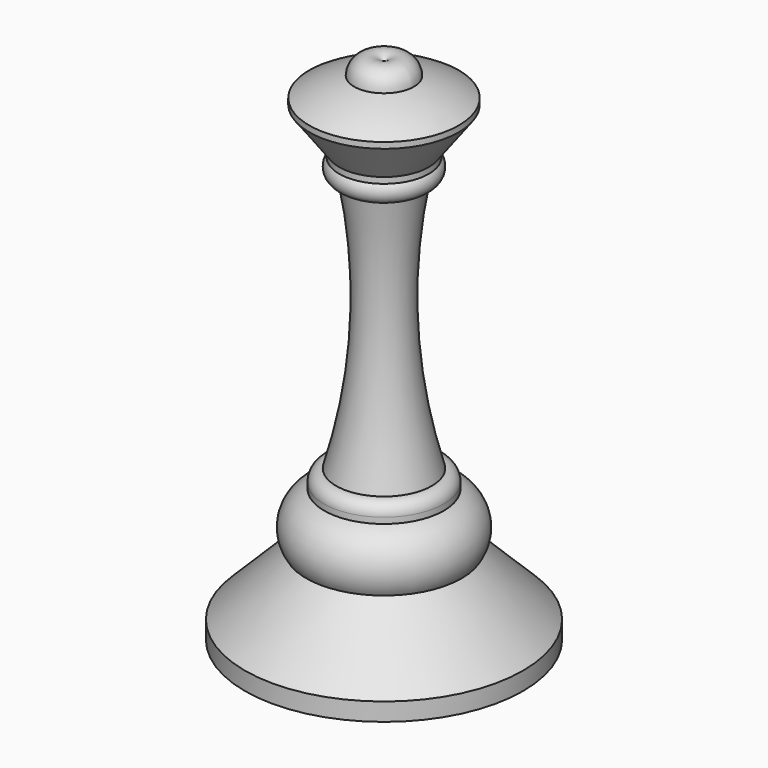
from build123d import *


with BuildPart() as f1:
    # F0 (on Front) → F1 (revolve)
    with BuildSketch(Plane.XZ):
        with BuildLine():
            Line((0, 0), (0, -85))
            Line((0, -85), (23.251464, -85))
            Line((23.251464, -85), (23.251464, -82))
            Line((23.251464, -82), (13, -71.748536))
            ThreePointArc((13, -71.748536), (13.690416, -66.5295), (10, -62.775057))
            Line((10, -62.775057), (10, -61.775057))
            ThreePointArc((10, -61.775057), (9.414214, -60.360844), (8, -59.775057))
            ThreePointArc((8, -59.775057), (4.460945, -38.679739), (6, -17.345057))
            ThreePointArc((6, -17.345057), (7.822876, -16.167933), (7.5, -14.022182))
            Line((7.5, -14.022182), (7.5, -13.022182))
            Line((7.5, -13.022182), (12.5, -6.27))
            Line((12.5, -6.27), (12.5, -5.27))
            ThreePointArc((12.5, -5.27), (8.884681, -3.326098), (5, -2))
            ThreePointArc((5, -2), (3.177033, 0.692582), (0, 0))
        make_face()
    revolve(axis=Axis((0, 0, -105.3716), (0, 0, 1)))


solid = f1.part
